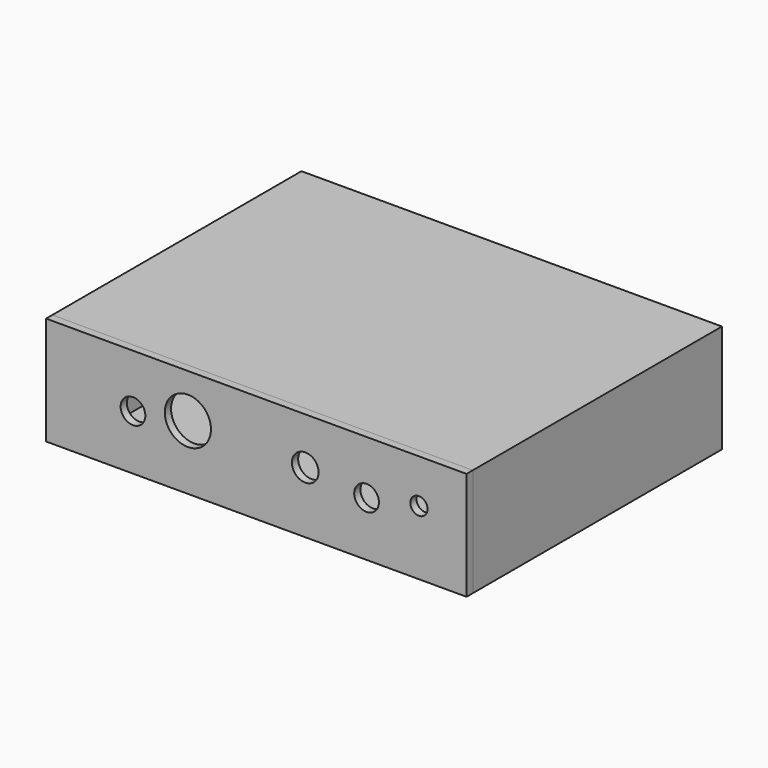
from build123d import *

# Parameters (mm, degrees)
F0_W     = 4
F0_H     = 3.3
F0_R     = 1.15
F0_H_2   = 3.9
F0_H_3   = 2.1
F0_W_2   = 92
F0_W_3   = 2.2
F0_H_4   = 1.4
F1_DEPTH = 80
F3_START = 80
F2_W     = 108
F2_H     = 27.45
F2_R     = 3.175
F2_R_2   = 5.925
F2_R_3   = 3.425
F2_R_4   = 2.225
F2_H_2   = 0.35
F3_DEPTH = 2


with BuildPart() as f1:
    # F0 (on Front) → F1 (new body)
    with BuildSketch(Plane.XZ):
        Polygon((-54, 25.7), (-50, 25.7), (-46, 25.7), (46, 25.7), (50, 25.7), (50, 27.8), (-54, 27.8), align=None)
        Polygon((-50, 22.4), (-50, 25.7), (-54, 25.7), (-54, 0), (-50, 0), (-50, 2.1), (-50, 6), (-50, 9), (-50, 10.4), (-50, 12.35), (-50, 13.75), (-50, 15.7), (-50, 17.1), (-50, 19.05), (-50, 20.45), align=None)
        with Locations((-48, 24.05)):
            Rectangle(F0_W, F0_H)
        with Locations((-48.05, 24.25)):
            Circle(F0_R, mode=Mode.SUBTRACT)
        with Locations((-48, 4.05)):
            Rectangle(F0_W, F0_H_2)
        with Locations((-48.05, 4.15)):
            Circle(F0_R, mode=Mode.SUBTRACT)
        with Locations((-48, 1.05)):
            Rectangle(F0_W, F0_H_3)
        with Locations((0, 1.05)):
            Rectangle(F0_W_2, F0_H_3)
        with Locations((48, 1.05)):
            Rectangle(F0_W, F0_H_3)
        Polygon((54, 25.7), (50, 25.7), (50, 22.4), (50, 20.45), (50, 19.05), (50, 17.1), (50, 15.7), (50, 13.75), (50, 12.35), (50, 10.4), (50, 9), (50, 6), (50, 2.1), (50, 0), (54, 0), align=None)
        with Locations((48, 4.05)):
            Rectangle(F0_W, F0_H_2)
        with Locations((48.05, 4.15)):
            Circle(F0_R, mode=Mode.SUBTRACT)
        with Locations((48.9, 9.7)):
            Rectangle(F0_W_3, F0_H_4)
        with Locations((48.9, 13.05)):
            Rectangle(F0_W_3, F0_H_4)
        with Locations((48.9, 16.4)):
            Rectangle(F0_W_3, F0_H_4)
        with Locations((48.9, 19.75)):
            Rectangle(F0_W_3, F0_H_4)
        with Locations((48, 24.05)):
            Rectangle(F0_W, F0_H)
        with Locations((48.05, 24.25)):
            Circle(F0_R, mode=Mode.SUBTRACT)
        with Locations((52, 26.75)):
            Rectangle(F0_W, F0_H_3)
        with Locations((-48.9, 9.7)):
            Rectangle(F0_W_3, F0_H_4)
        with Locations((-48.9, 13.05)):
            Rectangle(F0_W_3, F0_H_4)
        with Locations((-48.9, 16.4)):
            Rectangle(F0_W_3, F0_H_4)
        with Locations((-48.9, 19.75)):
            Rectangle(F0_W_3, F0_H_4)
    extrude(amount=F1_DEPTH)


with BuildPart() as f3:
    # F2 (on Front) → F3 (new body)
    with BuildSketch(Plane.XZ.offset(F3_START)):
        with Locations((0, 14.075)):
            Rectangle(F2_W, F2_H)
        with Locations((-31.675, 14.125)):
            Circle(F2_R, mode=Mode.SUBTRACT)
        with Locations((-17.575, 16.525)):
            Circle(F2_R_2, mode=Mode.SUBTRACT)
        with Locations((12.575, 15.775)):
            Circle(F2_R_3, mode=Mode.SUBTRACT)
        with Locations((28.325, 14.025)):
            Circle(F2_R, mode=Mode.SUBTRACT)
        with Locations((41.775, 16.575)):
            Circle(F2_R_4, mode=Mode.SUBTRACT)
        with Locations((0, 0.175)):
            Rectangle(F2_W, F2_H_2)
    extrude(amount=F3_DEPTH)


solid = Compound([f1.part, f3.part])
